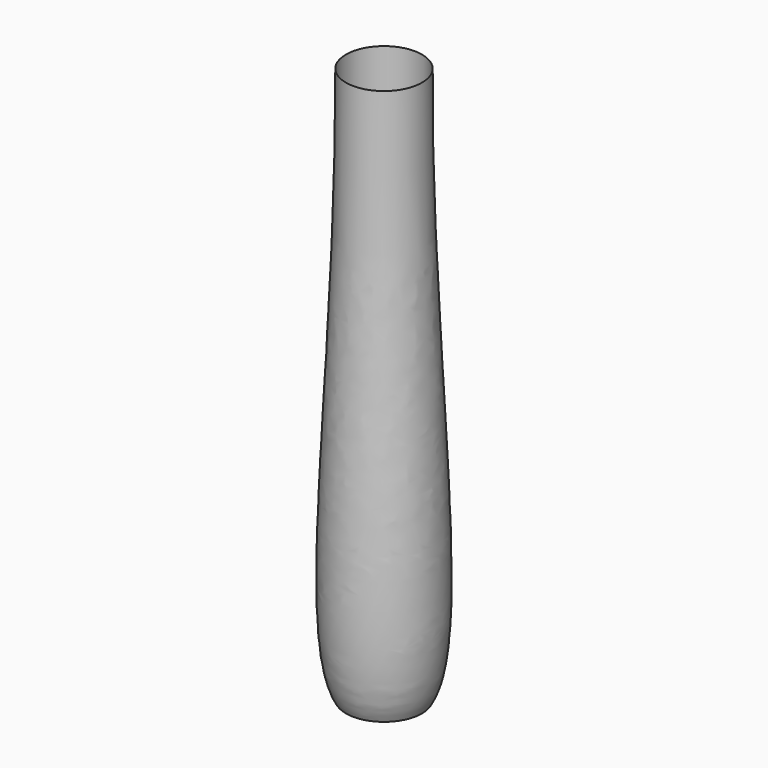
from build123d import *


with BuildPart() as f1:
    # F0 (on Front) → F1 (revolve)
    with BuildSketch(Plane.XZ):
        with BuildLine():
            add(Edge.make_bspline(
                [(-3.69951, 26.9875), (-3.69951, 0), (-6.9463825419, -21.6733414887), (-3.69951, -26.9875)],
                knots=[0, 0, 0, 0, 0.5906087628, 0.5906087628, 0.5906087628, 0.5906087628], degree=3))
            Line((-3.69951, -26.9875), (-3.69951, 26.9875))
        make_face()
    revolve(axis=Axis((0, 0, 0), (0, 0, 1)))


solid = f1.part
